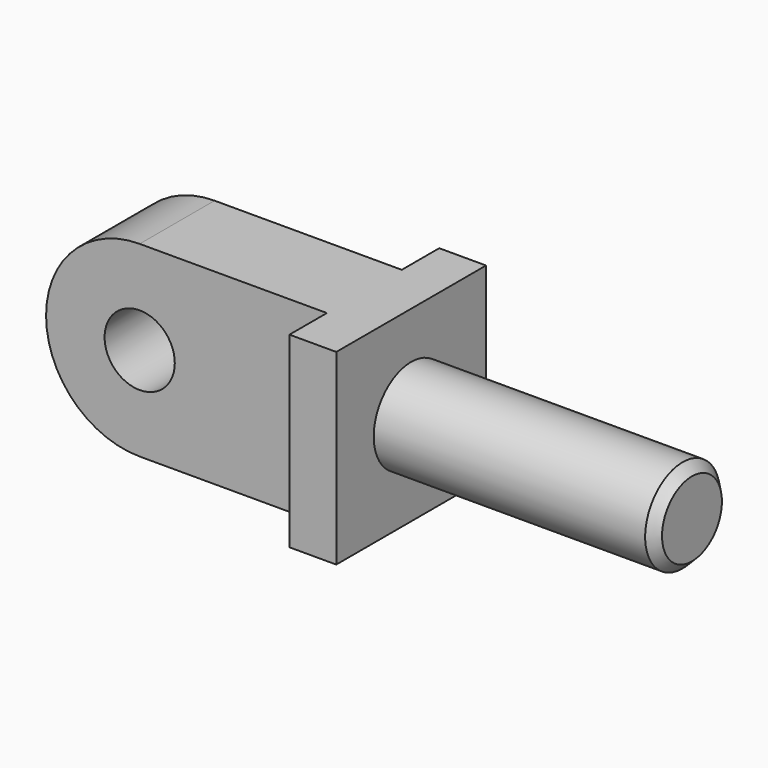
from build123d import *

# Parameters (mm, degrees)
F0_W     = 50.8
F0_H     = 50.8
F1_DEPTH = 12.7
F2_R     = 12.7
F3_DEPTH = 76.2
F4_SIZE  = 2.54
F5_W     = 25.4
F5_H     = 50.8
F6_DEPTH = 76.2
F7_R     = 9.525
F8_DEPTH = 38.101


with BuildPart() as f1:
    # F0 (on Right) → F1 (new body)
    with BuildSketch(Plane.YZ):
        with Locations((25.4, 25.4)):
            Rectangle(F0_W, F0_H)
    extrude(amount=F1_DEPTH)

    # F2 (on face) → F3 (join)
    with BuildSketch(Plane.YZ.offset(12.7)):
        with Locations((25.4, 25.4)):
            Circle(F2_R)
    extrude(amount=F3_DEPTH)

    # F4
    f4_edges = [f1.edges().sort_by_distance(p)[0] for p in [
        (88.9, 12.7, 25.4),
    ]]
    chamfer(f4_edges, length=F4_SIZE)

    # F5 (on face) → F6 (join)
    with BuildSketch(Plane(origin=(0, 0, 0), x_dir=(0, -1, 0), z_dir=(-1, 0, 0))):
        with Locations((-25.4, 25.4)):
            Rectangle(F5_W, F5_H)
    extrude(amount=F6_DEPTH)

    # F7 (on face) → F8 (cut, through all)
    with BuildSketch(Plane.XZ.offset(-12.7)):
        with BuildLine():
            ThreePointArc((-76.2, 25.4), (-68.760512, 43.360512), (-50.8, 50.8))
            Line((-50.8, 50.8), (-76.2, 50.8))
            Line((-76.2, 50.8), (-76.2, 25.4))
        make_face()
        with BuildLine():
            ThreePointArc((-50.8, 0), (-68.760512, 7.439488), (-76.2, 25.4))
            Line((-76.2, 25.4), (-76.2, 0))
            Line((-76.2, 0), (-50.8, 0))
        make_face()
        with Locations((-50.8, 25.4)):
            Circle(F7_R)
    extrude(amount=-F8_DEPTH, mode=Mode.SUBTRACT)


solid = f1.part
